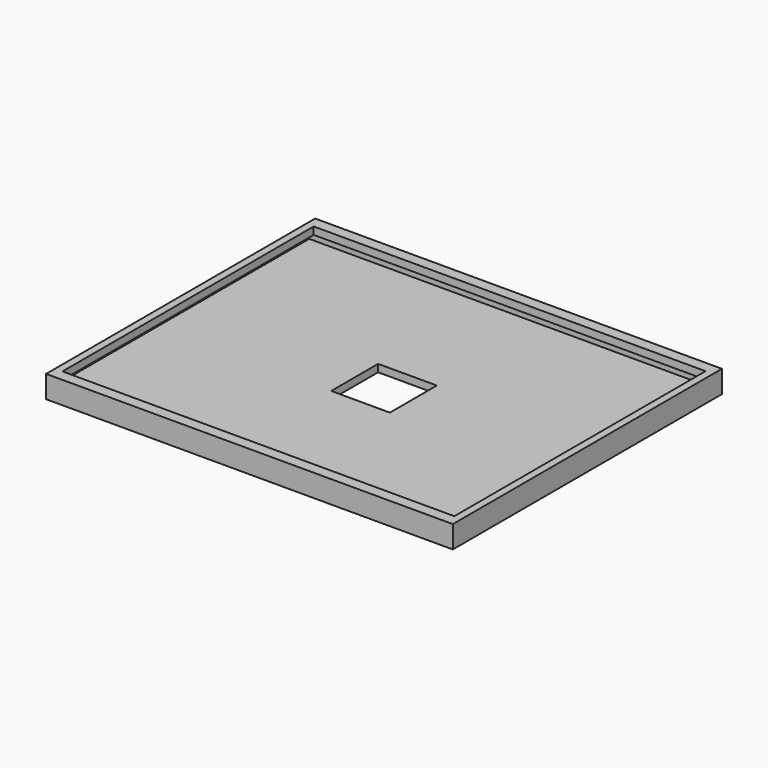
from build123d import *

# Parameters (mm, degrees)
F0_W     = 25
F0_H     = 25
F1_DEPTH = 3.175
F0_W_2   = 173.35
F0_H_2   = 143.35
F2_DEPTH = 9.525
F3_W     = 137
F3_H     = 3.175
F4_DEPTH = 25.4
F5_W     = 167
F5_H     = 3.175
F6_DEPTH = 1.5875
F7_W     = 167
F7_H     = 3.175
F8_DEPTH = 1.5875


with BuildPart() as f1:
    # F0 (on Top) → F1 (new body)
    with BuildSketch(Plane.XY):
        Polygon((-41.7, 68.5), (-67.1, 68.5), (-83.5, 68.5), (-83.5, 52.1), (-83.5, 26.7), (-83.5, -24.1), (-83.5, -49.5), (-83.5, -68.5), (-67.1, -68.5), (-41.7, -68.5), (-16.3, -68.5), (9.1, -68.5), (34.5, -68.5), (59.9, -68.5), (83.5, -68.5), (83.5, -49.5), (83.5, -24.1), (83.5, 26.7), (83.5, 52.1), (83.5, 68.5), (59.9, 68.5), (34.5, 68.5), (9.1, 68.5), (-16.3, 68.5), align=None)
        Rectangle(F0_W, F0_H, mode=Mode.SUBTRACT)
    extrude(amount=F1_DEPTH)

    # F0 (on Top) → F2 (join)
    with BuildSketch(Plane.XY):
        Rectangle(F0_W_2, F0_H_2)
        Polygon((-83.5, 68.5), (-67.1, 68.5), (-41.7, 68.5), (-16.3, 68.5), (9.1, 68.5), (34.5, 68.5), (59.9, 68.5), (83.5, 68.5), (83.5, 52.1), (83.5, 26.7), (83.5, -24.1), (83.5, -49.5), (83.5, -68.5), (59.9, -68.5), (34.5, -68.5), (9.1, -68.5), (-16.3, -68.5), (-41.7, -68.5), (-67.1, -68.5), (-83.5, -68.5), (-83.5, -49.5), (-83.5, -24.1), (-83.5, 26.7), (-83.5, 52.1), align=None, mode=Mode.SUBTRACT)
    extrude(amount=F2_DEPTH)

    # F3 (on face) → F4 (cut)
    with BuildSketch(Plane.YZ.offset(-83.5)):
        with Locations((0, 4.7625)):
            Rectangle(F3_W, F3_H)
    extrude(amount=-F4_DEPTH, mode=Mode.SUBTRACT)

    # F5 (on face) → F6 (join)
    with BuildSketch(Plane.XZ.offset(-68.5)):
        with Locations((0, 7.9375)):
            Rectangle(F5_W, F5_H)
    extrude(amount=F6_DEPTH)

    # F7 (on face) → F8 (join)
    with BuildSketch(Plane(origin=(0, -68.5, 0), x_dir=(-1, 0, 0), z_dir=(0, 1, 0))):
        with Locations((0, 7.9375)):
            Rectangle(F7_W, F7_H)
    extrude(amount=F8_DEPTH)


solid = f1.part
